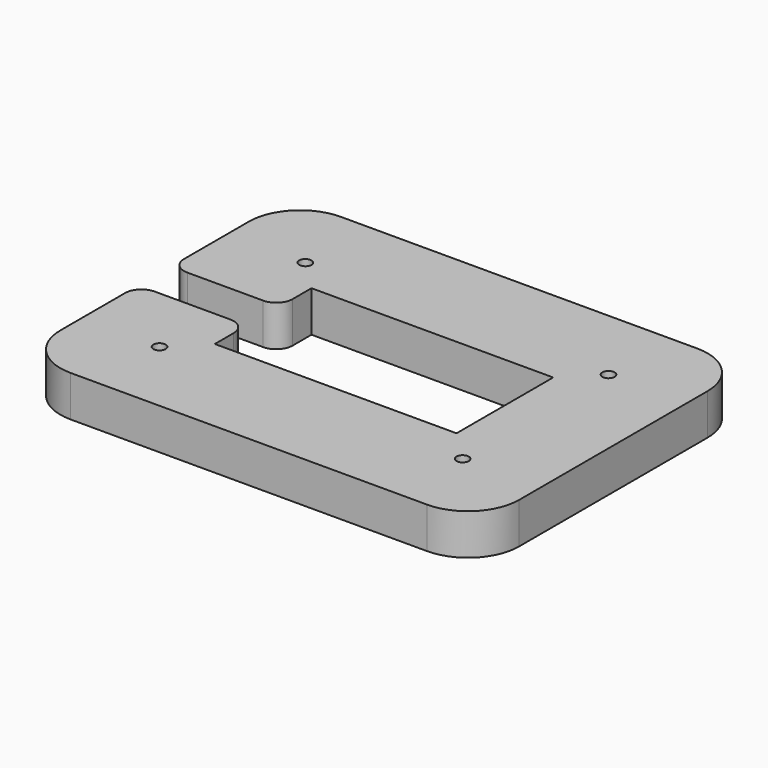
from build123d import *

# Parameters (mm, degrees)
BOX014_W          = 23.6
BOX014_H          = 11.8
BOX014_DEPTH      = 10
BOX015_W          = 10.6
BOX015_H          = 4
BOX015_DEPTH      = 10
CYLINDER007_R     = 0.6
CYLINDER007_DEPTH = 10
ARRAY009_X_COUNT  = 2
ARRAY009_X_PITCH  = 29.6
ARRAY009_Y_COUNT  = 2
ARRAY009_Y_PITCH  = 17.8
BOX012_W          = 44.8
BOX012_H          = 33
BOX012_DEPTH      = 4
FILLET_R          = 5
FILLET003003_R    = 1.6


with BuildPart() as base_extraction_cube:
    # Box014 → Box014 (new body)
    with BuildSketch(Plane(origin=(6, 6, 0), x_dir=(1, 0, 0), z_dir=(0, 0, 1))):
        with Locations((11.8, 5.9)):
            Rectangle(BOX014_W, BOX014_H)
    extrude(amount=BOX014_DEPTH)


with BuildPart() as wire_channel:
    # Box015 → Box015 (new body)
    with BuildSketch(Plane(origin=(-4.6, 9.9, 0), x_dir=(1, 0, 0), z_dir=(0, 0, 1))):
        with Locations((5.3, 2)):
            Rectangle(BOX015_W, BOX015_H)
    extrude(amount=BOX015_DEPTH)


with BuildPart() as base_extract_fusion:
    # Cylinder007 → Cylinder007 (new body)
    with BuildSketch(Plane.XY):
        Circle(CYLINDER007_R)
    extrude(amount=CYLINDER007_DEPTH)

    # Array009 X: base extract fusion ×2


with BuildPart() as base_extract_fusion_1:
    add(base_extract_fusion.part)
    with Locations(*[(i * ARRAY009_X_PITCH, 0, 0) for i in range(1, ARRAY009_X_COUNT)]):
        add(base_extract_fusion.part)

    # Array009 Y: base extract fusion ×2


with BuildPart() as base_extract_fusion_2:
    add(base_extract_fusion_1.part)
    with Locations(*[(0, i * ARRAY009_Y_PITCH, 0) for i in range(1, ARRAY009_Y_COUNT)]):
        add(base_extract_fusion_1.part)


with BuildPart() as base_extract_fusion_3:
    # Array009 placement: moved
    add(base_extract_fusion_2.part.moved(Location((3, 3, 0))))

    # Fusion010: union base extraction cube, wire channel
    add(base_extraction_cube.part)
    add(wire_channel.part)


with BuildPart() as base_cut_fillet_no_ears:
    # Box012 → Box012 (new body)
    with BuildSketch(Plane(origin=(-4.6, -4.6, 0), x_dir=(1, 0, 0), z_dir=(0, 0, 1))):
        with Locations((22.4, 16.5)):
            Rectangle(BOX012_W, BOX012_H)
    extrude(amount=BOX012_DEPTH)

    # Fillet
    fillet_edges = [base_cut_fillet_no_ears.edges().sort_by_distance(p)[0] for p in [
        (-4.6, -4.6, 2),
        (-4.6, 28.4, 2),
        (40.2, -4.6, 2),
        (40.2, 28.4, 2),
    ]]
    fillet(fillet_edges, radius=FILLET_R)

    # Cut002003: cut base extract fusion
    add(base_extract_fusion_3.part, mode=Mode.SUBTRACT)

    # Fillet003003
    fillet003003_edges = [base_cut_fillet_no_ears.edges().sort_by_distance(p)[0] for p in [
        (-4.6, 9.9, 2),
        (6, 9.9, 2),
        (6, 13.9, 2),
        (-4.6, 13.9, 2),
    ]]
    fillet(fillet003003_edges, radius=FILLET003003_R)


solid = base_cut_fillet_no_ears.part
